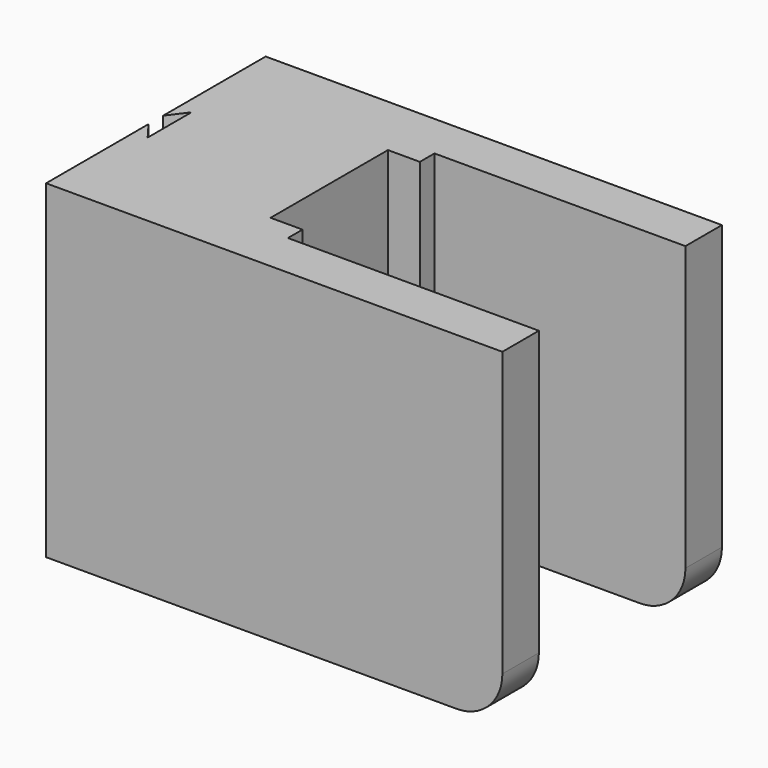
from build123d import *

# Parameters (mm, degrees)
PAD_DEPTH       = 40.15
SKETCH001_W     = 72.15
SKETCH001_H     = 10
PAD001_DEPTH    = 100
FILLET_R        = 10
SKETCH002_W     = 57.4
SKETCH002_H     = 32.15
POCKET_DEPTH    = 7
SKETCH003_R     = 1.05
PAD002_DEPTH    = 3
POCKET001_DEPTH = 72.151


with BuildPart() as part:
    # Sketch → Pad (new body)
    with BuildSketch(Plane(origin=(24.695071, 0, 0), x_dir=(0, 0, 1), z_dir=(0, 1, 0))):
        Polygon((-27.089598, 5.251773), (34.310402, 5.251773), (34.310402, -39.748227), (-37.839598, -39.748227), (-37.839598, -4.048227), (-35.689598, -4.048227), (-35.689598, 0.251773), (-33.689598, 0.251773), (-33.689598, -1.748227), (-31.389598, -1.748227), (-31.389598, 0.251773), (-29.389598, 0.251773), (-29.389598, -1.748227), (-27.089598, -1.748227), align=None)
    extrude(amount=PAD_DEPTH)

    # Sketch001 (on Face4 of Pad) → Pad001 (join)
    with BuildSketch(Plane.ZY.offset(15.053156)):
        with Locations((-1.764598, -5)):
            Rectangle(SKETCH001_W, SKETCH001_H)
        with Locations((-1.764598, 45.15)):
            Rectangle(SKETCH001_W, SKETCH001_H)
    extrude(amount=-PAD001_DEPTH)

    # Fillet
    fillet_edges = [part.edges().sort_by_distance(p)[0] for p in [
        (84.946844, -5, -37.839598),
        (84.946844, 45.15, -37.839598),
    ]]
    fillet(fillet_edges, radius=FILLET_R)

    # Sketch002 (on Face6 of Fillet) → Pocket (cut)
    with BuildSketch(Plane(origin=(29.946844, 0, 0), x_dir=(0, 0, -1), z_dir=(1, 0, 0))):
        with Locations((-5.610402, 20.075)):
            Rectangle(SKETCH002_W, SKETCH002_H)
    extrude(amount=-POCKET_DEPTH, mode=Mode.SUBTRACT)

    # Sketch003 (on Face25 of Pocket) → Pad002 (join)
    with BuildSketch(Plane(origin=(22.946844, 0, 0), x_dir=(0, 0, -1), z_dir=(1, 0, 0))):
        with Locations((16.789598, 11.183873)):
            Circle(SKETCH003_R)
        with Locations((16.789598, 27.683873)):
            Circle(SKETCH003_R)
        with Locations((-7.210402, 11.183873)):
            Circle(SKETCH003_R)
    extrude(amount=PAD002_DEPTH)

    # Sketch004 (on Face20 of Pad002) → Pocket001 (cut, through all)
    with BuildSketch(Plane(origin=(24.695071, 0, -37.839598), x_dir=(-1, 0, 0), z_dir=(0, 0, -1))):
        Polygon((36.748227, 26.075), (39.748227, 22.075), (39.748227, 18.075), (36.748227, 14.075), align=None)
    extrude(amount=-POCKET001_DEPTH, mode=Mode.SUBTRACT)


solid = part.part
